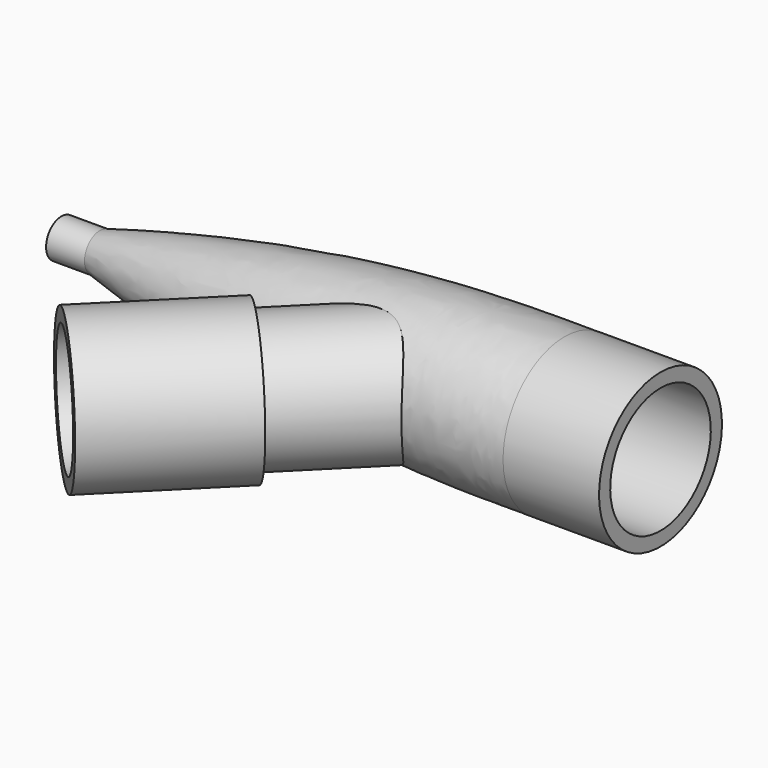
from build123d import *

# Parameters (mm, degrees)
F0_W = 2
F0_H = 0.675


with BuildPart() as f1:
    # F0 (on Front) → F1 (revolve)
    with BuildSketch(Plane.XZ):
        with Locations((0, 0.6625)):
            Rectangle(F0_W, F0_H)
        with BuildLine():
            add(Edge.make_bspline(
                [(25.2, 4), (20.2, 4), (12.59111, 4.105829), (1, 1)],
                knots=[0, 0, 0, 0, 24.385241, 24.385241, 24.385241, 24.385241], degree=3))
            Line((1, 1), (1, 0.325))
            add(Edge.make_bspline(
                [(25.2, 3.275), (20.2, 3.424434), (12.59111, 3.302944), (1, 0.325)],
                knots=[0, 0, 0, 0, 24.379141, 24.379141, 24.379141, 24.379141], degree=3))
            Line((25.2, 3.275), (25.2, 4))
        make_face()
        Polygon((30.2, 4), (25.2, 4), (25.2, 3.275), (27.7, 3.275), (30.2, 3.275), align=None)
    revolve(axis=Axis((13.85, 0, 0), (1, 0, 0)))

    # F2 (on Top) → F3 (revolve)
    with BuildSketch(Plane.XY):
        Polygon((20.365128, -3.429), (15.875, -3.175), (12.314808, -6.735192), (14.542194, -8.962578), (10.228843, -13.27593), (10.741495, -13.788582), (16.242975, -8.287103), (15.875, -7.919128), align=None)
    revolve(axis=Axis((12.314808, -6.735192, 0), (-0.707107, -0.707107, 0)))

    # F4 (on Front) → F5 (revolve, cut)
    with BuildSketch(Plane.XZ):
        with BuildLine():
            Line((27.7, 0), (27.7, 3.275))
            Line((27.7, 3.275), (25.2, 3.275))
            add(Edge.make_bspline(
                [(25.2, 3.275), (20.2, 3.424434), (12.59111, 3.302944), (1, 0.325)],
                knots=[0, 0, 0, 0, 24.379141, 24.379141, 24.379141, 24.379141], degree=3))
            Line((1, 0.325), (1, 0))
            Line((1, 0), (27.7, 0))
        make_face()
    revolve(axis=Axis((13.85, 0, 0), (1, 0, 0)), mode=Mode.SUBTRACT)


solid = f1.part
